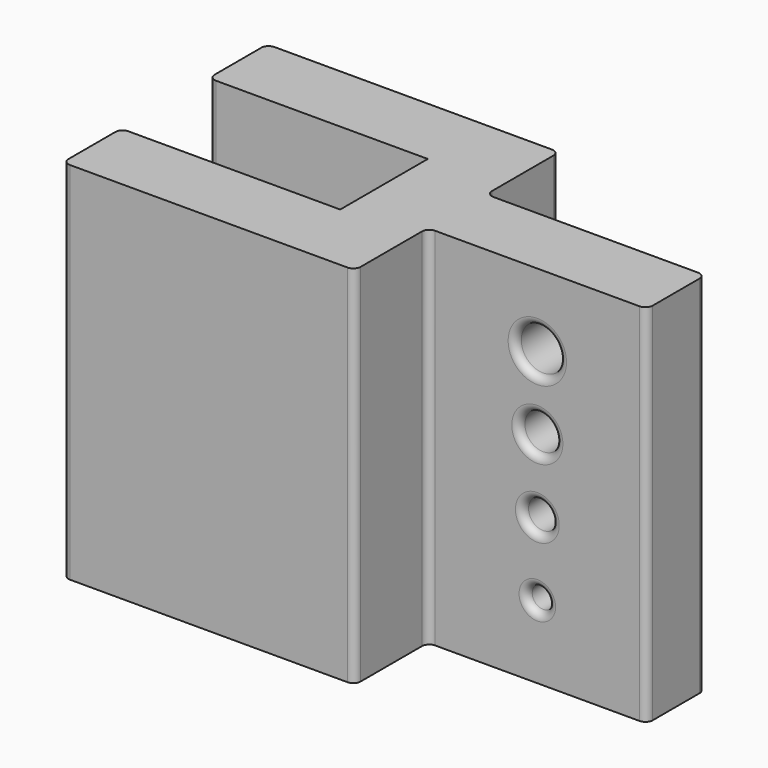
from build123d import *

# Parameters (mm, degrees)
F0_W     = 15
F0_H     = 5
F1_DEPTH = 25
F2_R     = 1.5
F2_R_2   = 1.25
F2_R_3   = 1
F2_R_4   = 0.75
F3_DEPTH = 25
F4_R     = 0.5


with BuildPart() as f1:
    # F0 (on Top) → F1 (new body)
    with BuildSketch(Plane.XY):
        Polygon((-2.5, -8.75), (2.5, -8.75), (2.5, -2.5), (2.5, 2.5), (2.5, 8.75), (-2.5, 8.75), (-2.5, 3.75), (-2.5, -3.75), align=None)
        with Locations((-10, -6.25)):
            Rectangle(F0_W, F0_H)
        with Locations((10, 0)):
            Rectangle(F0_W, F0_H)
        with Locations((-10, 6.25)):
            Rectangle(F0_W, F0_H)
    extrude(amount=F1_DEPTH)

    # F2 (on face) → F3 (cut)
    with BuildSketch(Plane(origin=(0, 2.5, 0), x_dir=(-1, 0, 0), z_dir=(0, 1, 0))):
        with Locations((-10, 20)):
            Circle(F2_R)
        with Locations((-10, 15)):
            Circle(F2_R_2)
        with Locations((-10, 10)):
            Circle(F2_R_3)
        with Locations((-10, 5)):
            Circle(F2_R_4)
    extrude(amount=-F3_DEPTH, mode=Mode.SUBTRACT)

    # F4
    f4_edges = [f1.edges().sort_by_distance(p)[0] for p in [
        (2.5, 8.75, 12.5),
        (2.5, -8.75, 12.5),
        (17.5, 2.5, 12.5),
        (17.5, -2.5, 12.5),
        (-17.5, 8.75, 12.5),
        (-17.5, -8.75, 12.5),
        (-17.5, -3.75, 12.5),
        (-17.5, 3.75, 12.5),
        (11.25, 2.5, 15),
        (8.75, 0, 15),
        (11.25, -2.5, 15),
        (11, 2.5, 10),
        (9, 0, 10),
        (11, -2.5, 10),
        (10.75, 2.5, 5),
        (9.25, 0, 5),
        (10.75, -2.5, 5),
        (11.5, 2.5, 20),
        (8.5, 0, 20),
        (11.5, -2.5, 20),
        (2.5, 2.5, 12.5),
        (2.5, -2.5, 12.5),
    ]]
    fillet(f4_edges, radius=F4_R)


solid = f1.part
